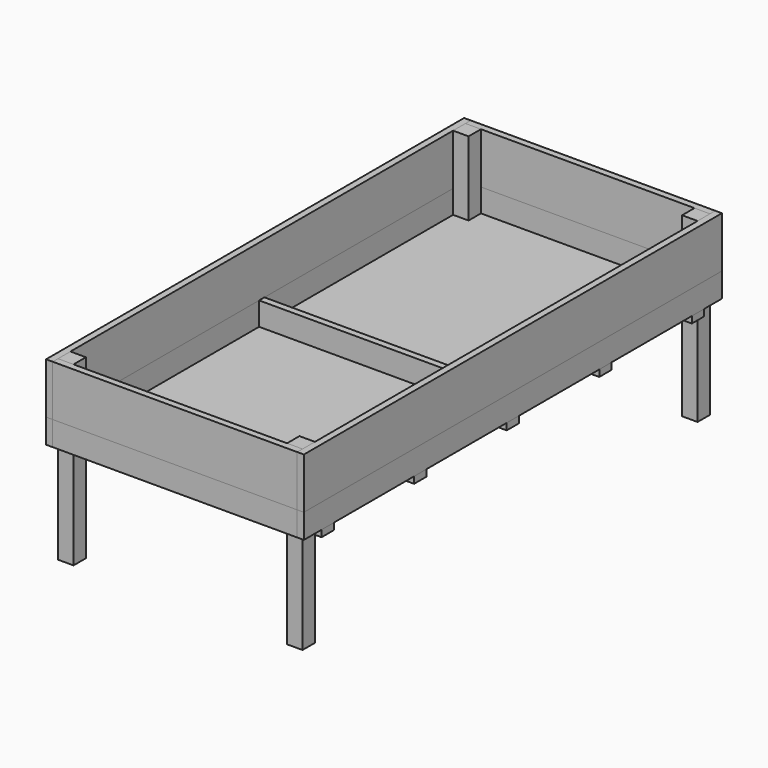
from build123d import *

# Parameters (mm, degrees)
F1_W          = 38.1
F1_H          = 292.1
F3_DEPTH      = 1499.997
F3_DEPTH_BACK = 1499.997
F1_H_2        = 139.7
F4_DEPTH      = 1499.997
F4_DEPTH_BACK = 1499.997
F5_W          = 38.1
F5_H          = 292.1
F6_DEPTH      = 701.802
F6_DEPTH_BACK = 701.802
F5_H_2        = 139.7
F7_DEPTH      = 701.802
F7_DEPTH_BACK = 701.802
F8_W          = 88.9
F8_H          = 88.9
F10_DEPTH     = 1016
F12_W         = 1225.804
F12_H         = 88.9
F12_W_2       = 1403.604
F12_H_2       = 575.3735
F12_H_3       = 25.4
F13_DEPTH     = 6.35
F12_W_3       = 38.1
F14_DEPTH     = 38.1
F12_H_4       = 38.1


with BuildPart() as f3:
    # F1 (on Front) → F3 (new body, two sides)
    with BuildSketch(Plane.XZ) as f3_sk:
        with Locations((-720.852, -146.05)):
            Rectangle(F1_W, F1_H)
    extrude(amount=F3_DEPTH)
    extrude(f3_sk.sketch, amount=-F3_DEPTH_BACK)


with BuildPart() as f3b:
    # F1 (on Front) → F3, piece 2 (new body, two sides)
    with BuildSketch(Plane.XZ) as f3_2_sk:
        with Locations((720.852, -146.05)):
            Rectangle(F1_W, F1_H)
    extrude(amount=F3_DEPTH)
    extrude(f3_2_sk.sketch, amount=-F3_DEPTH_BACK)


with BuildPart() as f4:
    # F1 (on Front) → F4 (new body, two sides)
    with BuildSketch(Plane.XZ) as f4_sk:
        with Locations((-720.852, -361.95)):
            Rectangle(F1_W, F1_H_2)
    extrude(amount=F4_DEPTH)
    extrude(f4_sk.sketch, amount=-F4_DEPTH_BACK)


with BuildPart() as f4b:
    # F1 (on Front) → F4, piece 2 (new body, two sides)
    with BuildSketch(Plane.XZ) as f4_2_sk:
        with Locations((720.852, -361.95)):
            Rectangle(F1_W, F1_H_2)
    extrude(amount=F4_DEPTH)
    extrude(f4_2_sk.sketch, amount=-F4_DEPTH_BACK)


with BuildPart() as f6:
    # F5 (on Right) → F6 (new body, two sides)
    with BuildSketch(Plane.YZ) as f6_sk:
        with Locations((1480.947, -146.05)):
            Rectangle(F5_W, F5_H)
    extrude(amount=F6_DEPTH)
    extrude(f6_sk.sketch, amount=-F6_DEPTH_BACK)


with BuildPart() as f6b:
    # F5 (on Right) → F6, piece 2 (new body, two sides)
    with BuildSketch(Plane.YZ) as f6_2_sk:
        with Locations((-1480.947, -146.05)):
            Rectangle(F5_W, F5_H)
    extrude(amount=F6_DEPTH)
    extrude(f6_2_sk.sketch, amount=-F6_DEPTH_BACK)


with BuildPart() as f7:
    # F5 (on Right) → F7 (new body, two sides)
    with BuildSketch(Plane.YZ) as f7_sk:
        with Locations((-1480.947, -361.95)):
            Rectangle(F5_W, F5_H_2)
    extrude(amount=F7_DEPTH)
    extrude(f7_sk.sketch, amount=-F7_DEPTH_BACK)


with BuildPart() as f7b:
    # F5 (on Right) → F7, piece 2 (new body, two sides)
    with BuildSketch(Plane.YZ) as f7_2_sk:
        with Locations((1480.947, -361.95)):
            Rectangle(F5_W, F5_H_2)
    extrude(amount=F7_DEPTH)
    extrude(f7_2_sk.sketch, amount=-F7_DEPTH_BACK)


with BuildPart() as f7c:
    # F5 (on Right) → F7, piece 3 (new body, two sides)
    with BuildSketch(Plane.YZ) as f7_3_sk:
        Polygon((19.05, -292.1), (0, -292.1), (-19.05, -292.1), (-19.05, -431.8), (19.05, -431.8), align=None)
    extrude(amount=F7_DEPTH)
    extrude(f7_3_sk.sketch, amount=-F7_DEPTH_BACK)


with BuildPart() as f10:
    # F8 (on Top) → F10 (new body, through all)
    with BuildSketch(Plane.XY):
        with Locations((-657.352, 1417.447)):
            Rectangle(F8_W, F8_H)
    extrude(amount=-F10_DEPTH)


with BuildPart() as f10b:
    # F8 (on Top) → F10, piece 2 (new body, through all)
    with BuildSketch(Plane.XY):
        with Locations((657.352, 1417.447)):
            Rectangle(F8_W, F8_H)
    extrude(amount=-F10_DEPTH)


with BuildPart() as f10c:
    # F8 (on Top) → F10, piece 3 (new body, through all)
    with BuildSketch(Plane.XY):
        with Locations((-657.352, -1417.447)):
            Rectangle(F8_W, F8_H)
    extrude(amount=-F10_DEPTH)


with BuildPart() as f10d:
    # F8 (on Top) → F10, piece 4 (new body, through all)
    with BuildSketch(Plane.XY):
        with Locations((657.352, -1417.447)):
            Rectangle(F8_W, F8_H)
    extrude(amount=-F10_DEPTH)


with BuildPart() as f13:
    # F12 (on offset) → F13 (new body)
    with BuildSketch(Plane(origin=(0, 0, -431.8), x_dir=(1, 0, 0), z_dir=(0, 0, -1))):
        with Locations((0, 1417.447)):
            Rectangle(F12_W, F12_H)
        Polygon((612.902, 1372.997), (-612.902, 1372.997), (-701.802, 1372.997), (-701.802, 1284.097), (701.802, 1284.097), (701.802, 1372.997), align=None)
        with Locations((0, 996.41025)):
            Rectangle(F12_W_2, F12_H_2)
        with Locations((0, 664.2735)):
            Rectangle(F12_W_2, F12_H)
        with Locations((0, 332.13675)):
            Rectangle(F12_W_2, F12_H_2)
        with Locations((0, 31.75)):
            Rectangle(F12_W_2, F12_H_3)
    extrude(amount=-F13_DEPTH)


with BuildPart() as f13b:
    # F12 (on offset) → F13, piece 2 (new body)
    with BuildSketch(Plane(origin=(0, 0, -431.8), x_dir=(1, 0, 0), z_dir=(0, 0, -1))):
        with Locations((0, -1417.447)):
            Rectangle(F12_W, F12_H)
        with Locations((0, -332.13675)):
            Rectangle(F12_W_2, F12_H_2)
        Polygon((701.802, -1284.097), (-701.802, -1284.097), (-701.802, -1372.997), (-612.902, -1372.997), (612.902, -1372.997), (701.802, -1372.997), align=None)
        with Locations((0, -664.2735)):
            Rectangle(F12_W_2, F12_H)
        with Locations((0, -996.41025)):
            Rectangle(F12_W_2, F12_H_2)
        with Locations((0, -31.75)):
            Rectangle(F12_W_2, F12_H_3)
    extrude(amount=-F13_DEPTH)


with BuildPart() as f14:
    # F12 (on offset) → F14 (new body)
    with BuildSketch(Plane(origin=(0, 0, -431.8), x_dir=(1, 0, 0), z_dir=(0, 0, -1))):
        with Locations((-720.852, 1328.547)):
            Rectangle(F12_W_3, F12_H)
        Polygon((612.902, 1372.997), (-612.902, 1372.997), (-701.802, 1372.997), (-701.802, 1284.097), (701.802, 1284.097), (701.802, 1372.997), align=None)
        with Locations((720.852, 1328.547)):
            Rectangle(F12_W_3, F12_H)
    extrude(amount=F14_DEPTH)


with BuildPart() as f14b:
    # F12 (on offset) → F14, piece 2 (new body)
    with BuildSketch(Plane(origin=(0, 0, -431.8), x_dir=(1, 0, 0), z_dir=(0, 0, -1))):
        with Locations((-720.852, 664.2735)):
            Rectangle(F12_W_3, F12_H)
        with Locations((0, 664.2735)):
            Rectangle(F12_W_2, F12_H)
        with Locations((720.852, 664.2735)):
            Rectangle(F12_W_3, F12_H)
    extrude(amount=F14_DEPTH)


with BuildPart() as f14c:
    # F12 (on offset) → F14, piece 3 (new body)
    with BuildSketch(Plane(origin=(0, 0, -431.8), x_dir=(1, 0, 0), z_dir=(0, 0, -1))):
        with Locations((0, 31.75)):
            Rectangle(F12_W_2, F12_H_3)
        Rectangle(F12_W_2, F12_H_4)
        Polygon((-701.802, 19.05), (-701.802, 44.45), (-739.902, 44.45), (-739.902, -44.45), (-701.802, -44.45), (-701.802, -19.05), align=None)
        with Locations((0, -31.75)):
            Rectangle(F12_W_2, F12_H_3)
        Polygon((739.902, 44.45), (701.802, 44.45), (701.802, 19.05), (701.802, -19.05), (701.802, -44.45), (739.902, -44.45), align=None)
    extrude(amount=F14_DEPTH)


with BuildPart() as f14d:
    # F12 (on offset) → F14, piece 4 (new body)
    with BuildSketch(Plane(origin=(0, 0, -431.8), x_dir=(1, 0, 0), z_dir=(0, 0, -1))):
        with Locations((-720.852, -664.2735)):
            Rectangle(F12_W_3, F12_H)
        with Locations((0, -664.2735)):
            Rectangle(F12_W_2, F12_H)
        with Locations((720.852, -664.2735)):
            Rectangle(F12_W_3, F12_H)
    extrude(amount=F14_DEPTH)


with BuildPart() as f14e:
    # F12 (on offset) → F14, piece 5 (new body)
    with BuildSketch(Plane(origin=(0, 0, -431.8), x_dir=(1, 0, 0), z_dir=(0, 0, -1))):
        with Locations((720.852, -1328.547)):
            Rectangle(F12_W_3, F12_H)
        with Locations((-720.852, -1328.547)):
            Rectangle(F12_W_3, F12_H)
        Polygon((701.802, -1284.097), (-701.802, -1284.097), (-701.802, -1372.997), (-612.902, -1372.997), (612.902, -1372.997), (701.802, -1372.997), align=None)
    extrude(amount=F14_DEPTH)


solid = Compound([f3.part, f3b.part, f4.part, f4b.part, f6.part, f6b.part, f7.part, f7b.part, f7c.part, f10.part, f10b.part, f10c.part, f10d.part, f13.part, f13b.part, f14.part, f14b.part, f14c.part, f14d.part, f14e.part])
